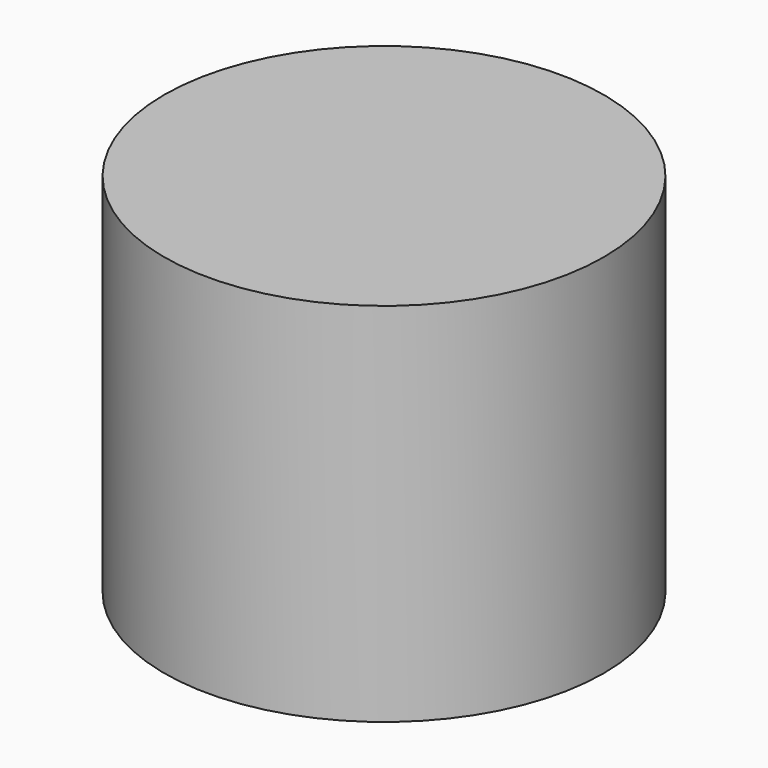
from build123d import *

# Parameters (mm, degrees)
CYLINDER_R     = 30
CYLINDER_DEPTH = 50


with BuildPart() as part:
    # Cylinder → Cylinder (join)
    with BuildSketch(Plane.XY):
        Circle(CYLINDER_R)
    extrude(amount=CYLINDER_DEPTH)


solid = part.part
